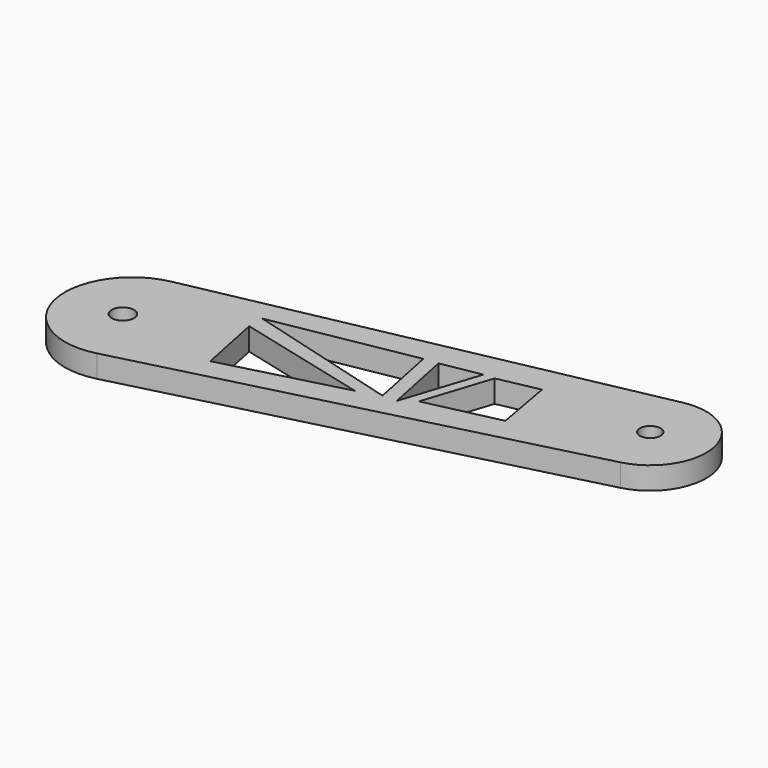
from build123d import *

# Parameters (mm, degrees)
F0_R     = 3.175
F0_R_2   = 2.921
F1_DEPTH = 6.35


with BuildPart() as f1:
    # F0 (on Top) → F1 (new body)
    with BuildSketch(Plane.XY):
        with BuildLine():
            ThreePointArc((-1.283954, 18.815638), (-16.041884, -4.122277), (7.257699, -18.302329))
            Line((7.257699, -18.302329), (130.272451, 13.263013))
            ThreePointArc((130.272451, 13.263013), (141.797436, 32.199991), (123.154407, 44.194652))
            Line((123.154407, 44.194652), (-1.283954, 18.815638))
        make_face()
        Circle(F0_R, mode=Mode.SUBTRACT)
        Polygon((29.207631, -5.563608), (25.443943, 12.890501), (63.004196, 3.33375), align=None, mode=Mode.SUBTRACT)
        Polygon((69.227189, 5.334001), (25.443943, 17.55775), (65.27254, 24.724429), align=None, mode=Mode.SUBTRACT)
        Polygon((73.26134, 5.334001), (69.227189, 25.114249), (80.339693, 27.114499), align=None, mode=Mode.SUBTRACT)
        Polygon((97.960818, 12.890501), (77.228196, 8.223251), (83.416395, 27.264698), (94.951053, 29.617174), align=None, mode=Mode.SUBTRACT)
        with Locations((126.323805, 28.686063)):
            Circle(F0_R_2, mode=Mode.SUBTRACT)
    extrude(amount=F1_DEPTH)


solid = f1.part
